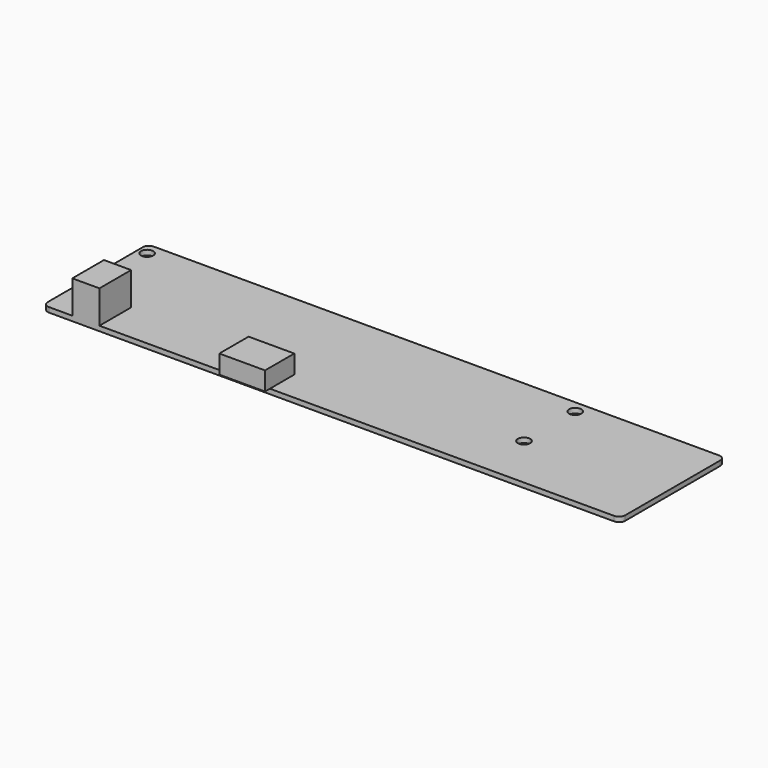
from build123d import *

# Parameters (mm, degrees)
F0_R     = 2
F1_DEPTH = 1.6
F2_W     = 8.9
F2_H     = 13
F3_DEPTH = 10.8
F4_W     = 15
F4_H     = 12
F5_DEPTH = 6.1


with BuildPart() as f1:
    # F0 (on Top) → F1 (new body)
    with BuildSketch(Plane.XY):
        with BuildLine():
            Line((-92.75, -21.5), (92.75, -21.5))
            ThreePointArc((92.75, -21.5), (94.164214, -20.914214), (94.75, -19.5))
            Line((94.75, -19.5), (94.75, 19.5))
            ThreePointArc((94.75, 19.5), (94.164214, 20.914214), (92.75, 21.5))
            Line((92.75, 21.5), (-92.75, 21.5))
            ThreePointArc((-92.75, 21.5), (-94.164214, 20.914214), (-94.75, 19.5))
            Line((-94.75, 19.5), (-94.75, -19.5))
            ThreePointArc((-94.75, -19.5), (-94.164214, -20.914214), (-92.75, -21.5))
        make_face()
        with Locations((-91.75, -3.5)):
            Circle(F0_R, mode=Mode.SUBTRACT)
        with Locations((48.75, -3.5)):
            Circle(F0_R, mode=Mode.SUBTRACT)
        with Locations((-91.75, 17.5)):
            Circle(F0_R, mode=Mode.SUBTRACT)
        with Locations((48.75, 17.5)):
            Circle(F0_R, mode=Mode.SUBTRACT)
    extrude(amount=F1_DEPTH)

    # F2 (on face) → F3 (join)
    with BuildSketch(Plane.XY.offset(1.6)):
        with Locations((-80.65, -15)):
            Rectangle(F2_W, F2_H)
    extrude(amount=F3_DEPTH)

    # F4 (on face) → F5 (join)
    with BuildSketch(Plane.XY.offset(1.6)):
        with Locations((-27.75, -17.5)):
            Rectangle(F4_W, F4_H)
    extrude(amount=F5_DEPTH)


solid = f1.part
